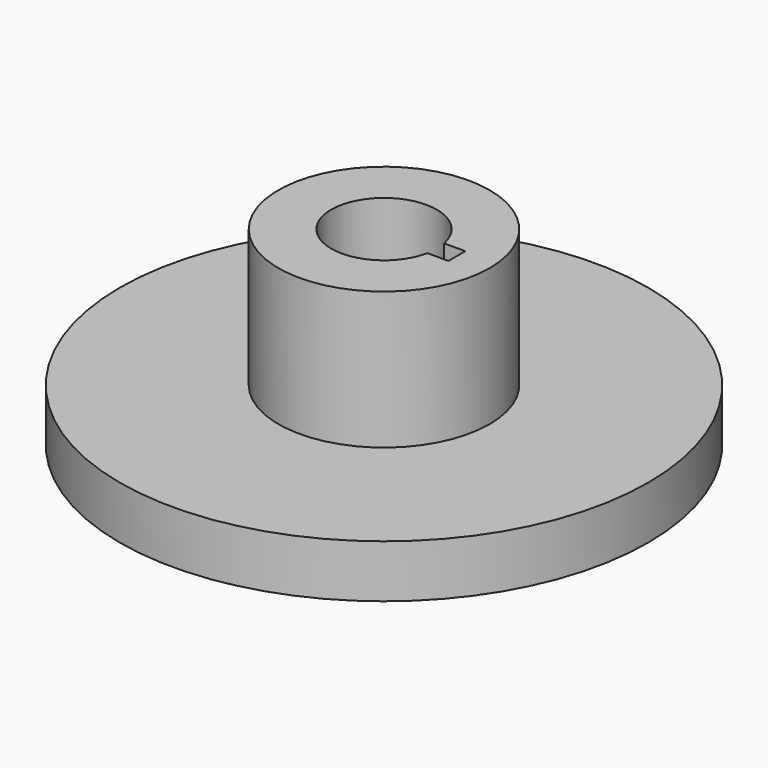
from build123d import *

# Parameters (mm, degrees)
F0_R     = 10
F1_DEPTH = 18
F0_R_2   = 25
F2_DEPTH = 5


with BuildPart() as f1:
    # F0 (on Top) → F1 (new body)
    with BuildSketch(Plane.XY):
        Circle(F0_R)
        with BuildLine():
            ThreePointArc((4.898979, -1), (-5, 0), (4.898979, 1))
            Line((4.898979, 1), (6.898979, 1))
            Line((6.898979, 1), (6.898979, -1))
            Line((6.898979, -1), (4.898979, -1))
        make_face(mode=Mode.SUBTRACT)
    extrude(amount=F1_DEPTH)

    # F0 (on Top) → F2 (join)
    with BuildSketch(Plane.XY):
        Circle(F0_R_2)
        Circle(F0_R, mode=Mode.SUBTRACT)
    extrude(amount=F2_DEPTH)


solid = f1.part
